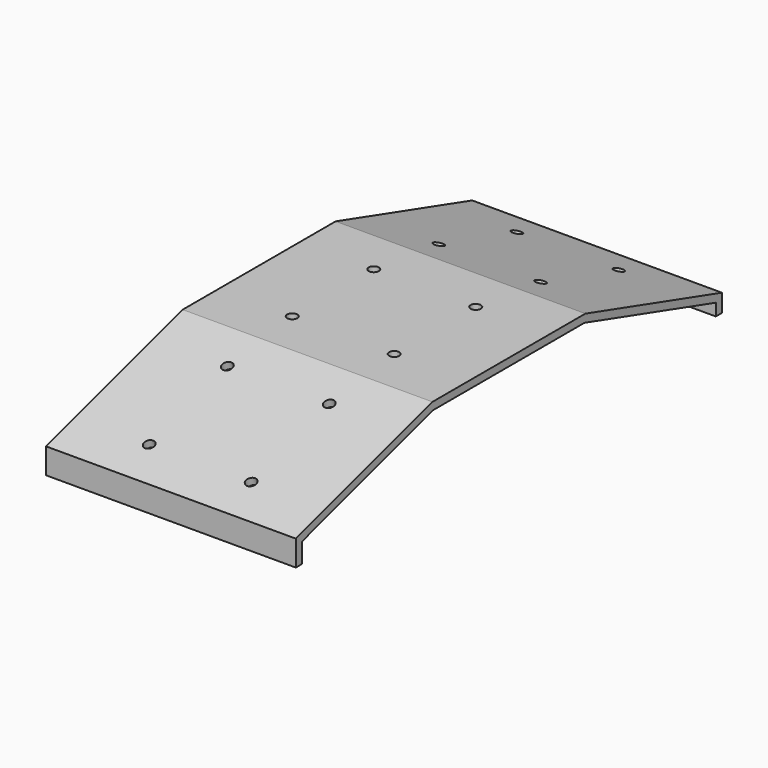
from build123d import *

# Parameters (mm, degrees)
PAD009_DEPTH    = 49
THICKNESS002_T  = -3
SKETCH010_W     = 3
SKETCH010_H     = 3
POCKET_DEPTH    = 98.001
SKETCH011_R     = 2
POCKET001_DEPTH = 3
SKETCH012_R     = 2
POCKET002_DEPTH = 3
SKETCH013_R     = 2
POCKET003_DEPTH = 3


with BuildPart() as part:
    # Sketch009 → Pad009 (new body, symmetric)
    with BuildSketch(Plane.YZ):
        Polygon((0, 0), (-209, 0), (-209, 10), (-142, 30), (-67, 30), (0, 10), align=None)
    extrude(amount=PAD009_DEPTH, both=True)

    # Thickness002
    thickness002_openings = [part.faces().sort_by_distance(p)[0] for p in [
        (49, -104.5, 12.734956),
        (0, -104.5, 0),
        (-49, -104.5, 12.734956),
    ]]
    offset(amount=THICKNESS002_T, openings=thickness002_openings)

    # Sketch010 (on Face6 of Thickness002) → Pocket (cut, through all)
    with BuildSketch(Plane.YZ.offset(49)):
        with Locations((-1.5, 1.5)):
            Rectangle(SKETCH010_W, SKETCH010_H)
    extrude(amount=-POCKET_DEPTH, mode=Mode.SUBTRACT)

    # Sketch011 (on Face3 of Pocket) → Pocket001 (cut)
    with BuildSketch(Plane(origin=(0, -19.8404581714, 66.4655348742), x_dir=(1, 0, 0), z_dir=(0, -0.2860355264, 0.9582190134))):
        with Locations((-20, -142.4467263242)):
            Circle(SKETCH011_R)
        with Locations((20, -142.4467263242)):
            Circle(SKETCH011_R)
        with Locations((20, -182.4467263242)):
            Circle(SKETCH011_R)
        with Locations((-20, -182.4467263242)):
            Circle(SKETCH011_R)
    extrude(amount=-POCKET001_DEPTH, mode=Mode.SUBTRACT)

    # Sketch012 (on Face7 of Pocket001) → Pocket002 (cut)
    with BuildSketch(Plane.XY.offset(30)):
        with Locations((-20, -124.5)):
            Circle(SKETCH012_R)
        with Locations((20, -124.5)):
            Circle(SKETCH012_R)
        with Locations((-20, -84.5)):
            Circle(SKETCH012_R)
        with Locations((20, -84.5)):
            Circle(SKETCH012_R)
    extrude(amount=-POCKET002_DEPTH, mode=Mode.SUBTRACT)

    # Sketch013 (on Face13 of Pocket002) → Pocket003 (cut)
    with BuildSketch(Plane(origin=(0, 2.7408467989, 9.1818367764), x_dir=(1, 0, 0), z_dir=(0, 0.2860355264, 0.9582190134))):
        with Locations((-20, -17.8210474767)):
            Circle(SKETCH013_R)
        with Locations((20, -17.8210474767)):
            Circle(SKETCH013_R)
        with Locations((20, -57.8210474767)):
            Circle(SKETCH013_R)
        with Locations((-20, -57.8210474767)):
            Circle(SKETCH013_R)
    extrude(amount=-POCKET003_DEPTH, mode=Mode.SUBTRACT)


solid = part.part
